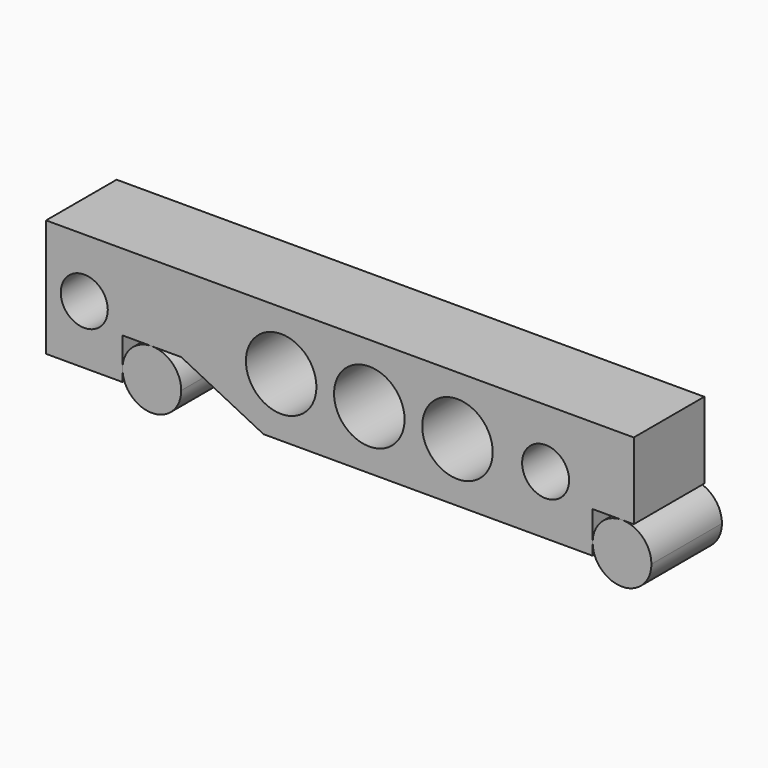
from build123d import *

# Parameters (mm, degrees)
F0_R     = 4
F0_R_2   = 6
F1_DEPTH = 15


with BuildPart() as f1:
    # F0 (on Front) → F1 (new body)
    with BuildSketch(Plane.XZ):
        Polygon((-13, -10), (43, -10), (43, -8), (43, -3), (48, -3), (50, -3), (50, 10), (-50, 10), (-50, -10), (-37, -10), (-37, -8), (-37, -3), (-32, -3), (-27, -3), align=None)
        with Locations((-43.5, 0)):
            Circle(F0_R, mode=Mode.SUBTRACT)
        with Locations((-10, 0)):
            Circle(F0_R_2, mode=Mode.SUBTRACT)
        with Locations((5, 0)):
            Circle(F0_R_2, mode=Mode.SUBTRACT)
        with Locations((20, 0)):
            Circle(F0_R_2, mode=Mode.SUBTRACT)
        with Locations((35, 0)):
            Circle(F0_R, mode=Mode.SUBTRACT)
        with BuildLine():
            ThreePointArc((-27, -8), (-28.464466, -4.464466), (-32, -3))
            ThreePointArc((-32, -3), (-35.535534, -4.464466), (-37, -8))
            ThreePointArc((-37, -8), (-32, -13), (-27, -8))
        make_face()
        with BuildLine():
            ThreePointArc((48, -3), (44.464466, -4.464466), (43, -8))
            ThreePointArc((43, -8), (48, -13), (53, -8))
            ThreePointArc((53, -8), (51.535534, -4.464466), (48, -3))
        make_face()
    extrude(amount=F1_DEPTH)


solid = f1.part
